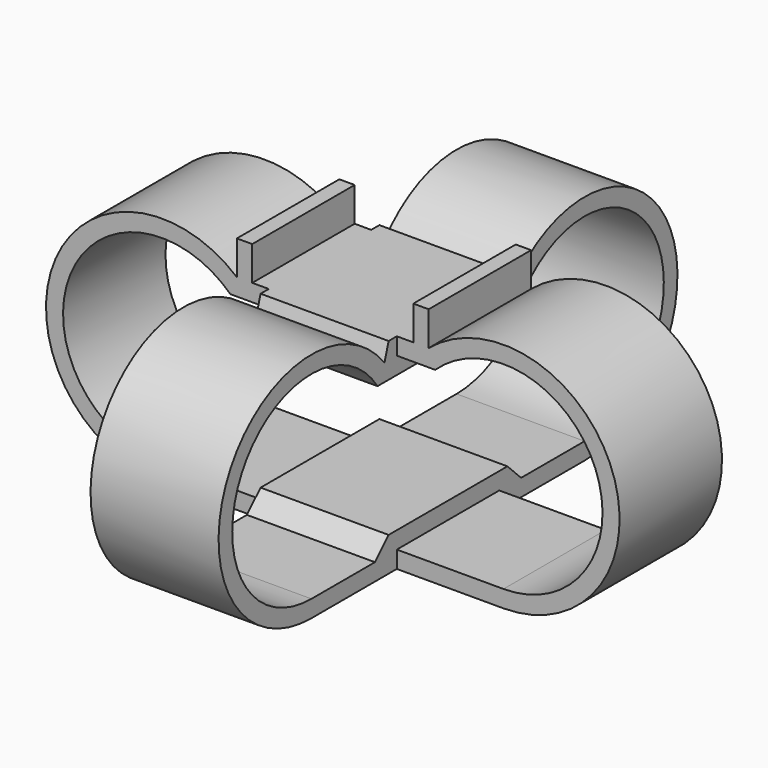
from build123d import *

# Parameters (mm, degrees)
F1_DEPTH = 7.5
F3_DEPTH = 7.5


with BuildPart() as f1:
    # F0 (on Front) → F1 (new body, symmetric)
    with BuildSketch(Plane.XZ):
        with BuildLine():
            Line((9.436439, 16), (9.436439, 12))
            Line((9.436439, 12), (-9.436439, 12))
            Line((-9.436439, 12), (-9.436439, 16))
            Line((-9.436439, 16), (-11.236439, 16))
            Line((-11.236439, 16), (-11.236439, 12))
            ThreePointArc((-11.236439, 12), (-32.774976, 6.264762), (-20, -12))
            Line((-20, -12), (20, -12))
            ThreePointArc((20, -12), (32.774976, 6.264762), (11.236439, 12))
            Line((11.236439, 12), (11.236439, 16))
            Line((11.236439, 16), (9.436439, 16))
        make_face()
        with BuildLine():
            Line((-12, 10), (12, 10))
            ThreePointArc((12, 10), (30.77033, 5.908132), (20, -10))
            Line((20, -10), (-20, -10))
            ThreePointArc((-20, -10), (-30.77033, 5.908132), (-12, 10))
        make_face(mode=Mode.SUBTRACT)
    extrude(amount=F1_DEPTH, both=True)

    # F2 (on Right) → F3 (join, symmetric)
    with BuildSketch(Plane.YZ):
        with BuildLine():
            Line((-7.5, -10), (7.5, -10))
            Line((7.5, -10), (7.5, -12))
            Line((7.5, -12), (20, -12))
            ThreePointArc((20, -12), (32.231108, 7.546427), (9.304206, 10))
            Line((9.304206, 10), (8.7, 12))
            Line((8.7, 12), (7.5, 12))
            Line((7.5, 12), (7.5, 10))
            Line((7.5, 10), (-7.5, 10))
            Line((-7.5, 10), (-7.5, 12))
            Line((-7.5, 12), (-8.7, 12))
            Line((-8.7, 12), (-9.304206, 10))
            ThreePointArc((-9.304206, 10), (-32.231108, 7.546427), (-20, -12))
            Line((-20, -12), (-7.5, -12))
            Line((-7.5, -12), (-7.5, -10))
        make_face()
        with BuildLine():
            Line((-10.7, -10), (-20, -10))
            ThreePointArc((-20, -10), (-30.217632, 7.091812), (-10.325291, 8))
            Line((-10.325291, 8), (10.325291, 8))
            ThreePointArc((10.325291, 8), (30.217632, 7.091812), (20, -10))
            Line((20, -10), (10.7, -10))
            Line((10.7, -10), (8.7, -8))
            Line((8.7, -8), (-8.7, -8))
            Line((-8.7, -8), (-10.7, -10))
        make_face(mode=Mode.SUBTRACT)
    extrude(amount=F3_DEPTH, both=True)


solid = f1.part
